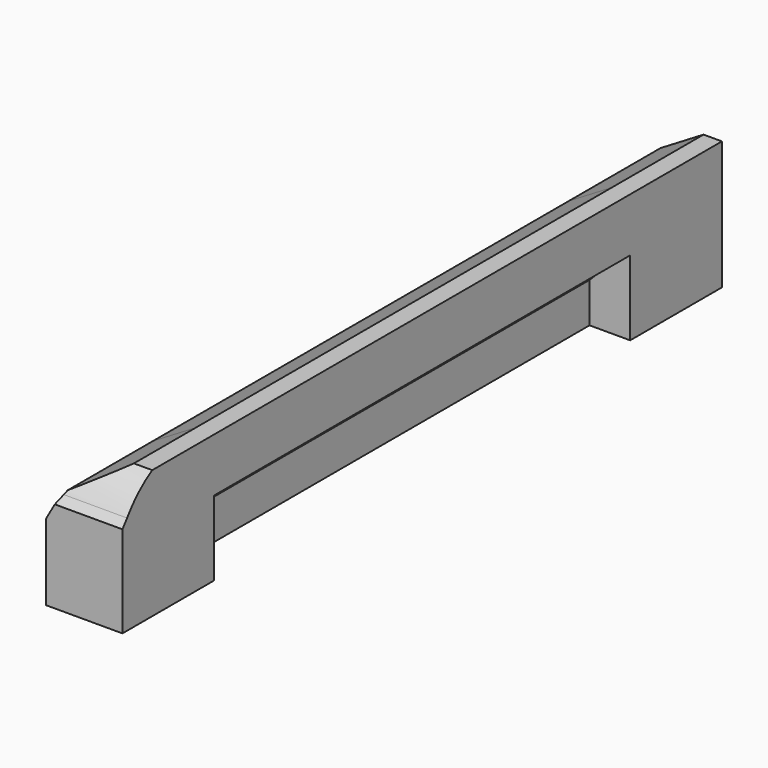
from build123d import *

# Parameters (mm, degrees)
F1_DEPTH  = 7.45
F2_W      = 0.582146
F2_H      = 1.072485
F3_DEPTH  = 7.451
F4_SIZE   = 0.5
F5_SIZE   = 0.25
F7_DEPTH  = 1.643
F9_DEPTH  = 1.643
F11_W     = 10.736
F11_H     = 0.158
F12_DEPTH = 1.094878
F13_DEPTH = 1.094878


with BuildPart() as f1:
    # F0 (on Front) → F1 (new body)
    with BuildSketch(Plane.XZ):
        Polygon((0, 1.342732), (0, 0), (1.093878, 0), (1.093878, 1.085751), (1.093878, 2), align=None)
    extrude(amount=F1_DEPTH)

    # F2 (on face) → F3 (cut, through all)
    with BuildSketch(Plane.XZ.offset(7.45)):
        with Locations((0.802805, 0.536242)):
            Rectangle(F2_W, F2_H)
    extrude(amount=-F3_DEPTH, mode=Mode.SUBTRACT)

    # F4
    f4_edges = [f1.edges().sort_by_distance(p)[0] for p in [
        (0.511732, -3.725, 1.072485),
    ]]
    chamfer(f4_edges, length=F4_SIZE)

    # F5
    f5_edges = [f1.edges().sort_by_distance(p)[0] for p in [
        (0, -3.725, 1.342732),
    ]]
    chamfer(f5_edges, length=F5_SIZE)

    # F6 (on face) → F7 (join)
    with BuildSketch(Plane(origin=(0, 0, 0), x_dir=(-1, 0, 0), z_dir=(0, 1, 0))):
        Polygon((-0.214292, 1.471492), (-1.093878, 2), (-1.093878, 0), (0, 0), (0, 1.092732), align=None)
    extrude(amount=F7_DEPTH)

    # F8 (on face) → F9 (join)
    with BuildSketch(Plane.XZ.offset(7.45)):
        Polygon((1.093878, 0), (1.093878, 2), (0.214292, 1.471492), (0, 1.092732), (0, 0), align=None)
    extrude(amount=F9_DEPTH)

    # F11 (on face) → F12 (cut, through all)
    with BuildSketch(Plane.YZ.offset(1.093878)):
        with Locations((-3.725, 1.921)):
            Rectangle(F11_W, F11_H)
    extrude(amount=-F12_DEPTH, mode=Mode.SUBTRACT)

    # F10 (on face) → F13 (cut, through all)
    with BuildSketch(Plane.YZ.offset(1.093878)):
        with BuildLine():
            Line((-9.093, 2), (-9.093, 1.31302))
            Line((-9.093, 1.31302), (-9.009582, 1.421623))
            ThreePointArc((-9.009582, 1.421623), (-8.629245, 1.79858), (-8.133078, 2))
            Line((-8.133078, 2), (-9.093, 2))
        make_face()
        with BuildLine():
            ThreePointArc((-7.6235, 2), (-7.878289, 2.024017), (-8.133078, 2))
            Line((-8.133078, 2), (-7.6235, 2))
        make_face()
    extrude(amount=-F13_DEPTH, mode=Mode.SUBTRACT)


solid = f1.part
